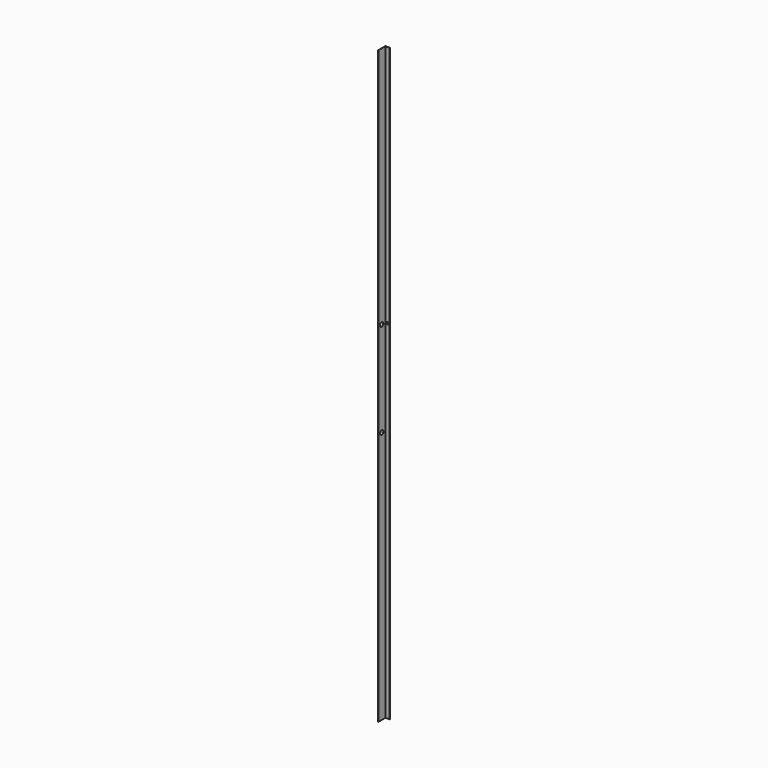
from build123d import *

# Parameters (mm, degrees)
F0_W     = 0.5
F0_H     = 19.5
F0_H_2   = 0.5
F0_W_2   = 9.5
F1_DEPTH = 1300
F2_R     = 4.5
F3_DEPTH = 25
F4_R     = 2.5
F5_DEPTH = 25
F6_R     = 4.5
F7_DEPTH = 25


with BuildPart() as f1:
    # F0 (on Top) → F1 (new body)
    with BuildSketch(Plane.XY):
        with Locations((-56.969816, -30.547241)):
            Rectangle(F0_W, F0_H)
        with Locations((-56.969816, -20.547241)):
            Rectangle(F0_W, F0_H_2)
        with Locations((-51.969816, -20.547241)):
            Rectangle(F0_W_2, F0_H_2)
    extrude(amount=F1_DEPTH)

    # F2 (on face) → F3 (cut)
    with BuildSketch(Plane(origin=(-57.219816, 0, 0), x_dir=(0, -1, 0), z_dir=(-1, 0, 0))):
        with Locations((31.05364, 765.408933)):
            Circle(F2_R)
    extrude(amount=-F3_DEPTH, mode=Mode.SUBTRACT)

    # F4 (on face) → F5 (cut)
    with BuildSketch(Plane(origin=(0, -20.297241, 0), x_dir=(-1, 0, 0), z_dir=(0, 1, 0))):
        with Locations((52.001603, 765.470803)):
            Circle(F4_R)
    extrude(amount=-F5_DEPTH, mode=Mode.SUBTRACT)

    # F6 (on face) → F7 (cut)
    with BuildSketch(Plane(origin=(-57.219816, 0, 0), x_dir=(0, -1, 0), z_dir=(-1, 0, 0))):
        with Locations((30.562836, 556.409509)):
            Circle(F6_R)
    extrude(amount=-F7_DEPTH, mode=Mode.SUBTRACT)


solid = f1.part
